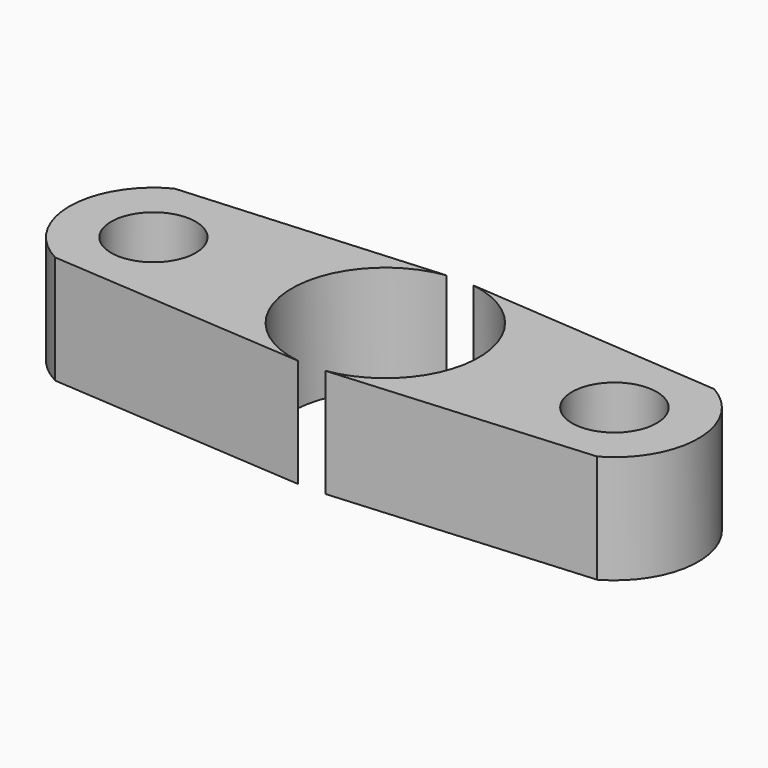
from build123d import *

# Parameters (mm, degrees)
F0_R     = 4.68
F1_DEPTH = 12
F2_R     = 4.69
F3_DEPTH = 12


with BuildPart() as f1:
    # F0 (on Top) → F1 (new body)
    with BuildSketch(Plane.XY):
        with BuildLine():
            ThreePointArc((-1.445269, -10.248595), (-10.35, 0), (-1.445269, 10.248595))
            Line((-1.445269, 10.248595), (-29.926428, 8.250257))
            ThreePointArc((-29.926428, 8.250257), (-34.946153, 0), (-29.926428, -8.250257))
            Line((-29.926428, -8.250257), (-1.445269, -10.248595))
        make_face()
        with Locations((-25.656363, 0)):
            Circle(F0_R, mode=Mode.SUBTRACT)
    extrude(amount=F1_DEPTH)


with BuildPart() as f3:
    # F2 (on Top) → F3 (new body)
    with BuildSketch(Plane.XY):
        with BuildLine():
            ThreePointArc((1.555611, 10.232428), (10.35, 0), (1.555611, -10.232428))
            Line((1.555611, -10.232428), (29.914681, -8.089061))
            ThreePointArc((29.914681, -8.089061), (34.636182, 0), (29.914681, 8.089061))
            Line((29.914681, 8.089061), (1.555611, 10.232428))
        make_face()
        with Locations((25.346182, 0)):
            Circle(F2_R, mode=Mode.SUBTRACT)
    extrude(amount=F3_DEPTH)


solid = Compound([f1.part, f3.part])
